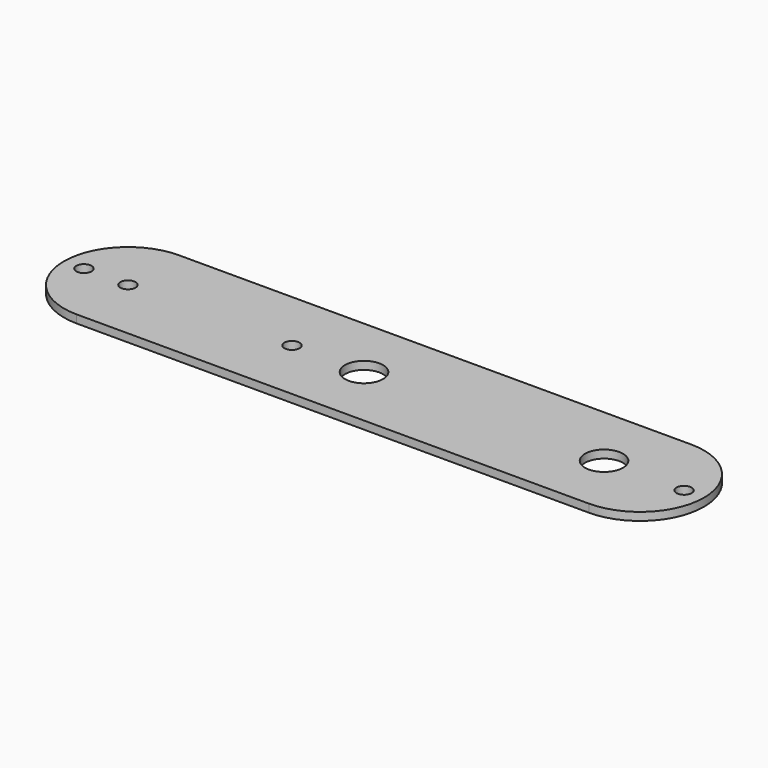
from build123d import *

# Parameters (mm, degrees)
F0_R     = 1.9
F0_R_2   = 4.75
F1_DEPTH = 2


with BuildPart() as f1:
    # F0 (on Top) → F1 (new body)
    with BuildSketch(Plane.XY):
        with BuildLine():
            Line((128, 16), (0, 16))
            ThreePointArc((0, 16), (-16, 0), (0, -16))
            Line((0, -16), (128, -16))
            ThreePointArc((128, -16), (144, 0), (128, 16))
        make_face()
        with Locations((-11, 0)):
            Circle(F0_R, mode=Mode.SUBTRACT)
        Circle(F0_R, mode=Mode.SUBTRACT)
        with Locations((41, 0)):
            Circle(F0_R, mode=Mode.SUBTRACT)
        with Locations((59, 0)):
            Circle(F0_R_2, mode=Mode.SUBTRACT)
        with Locations((119, 0)):
            Circle(F0_R_2, mode=Mode.SUBTRACT)
        with Locations((139, 0)):
            Circle(F0_R, mode=Mode.SUBTRACT)
    extrude(amount=F1_DEPTH)


solid = f1.part
